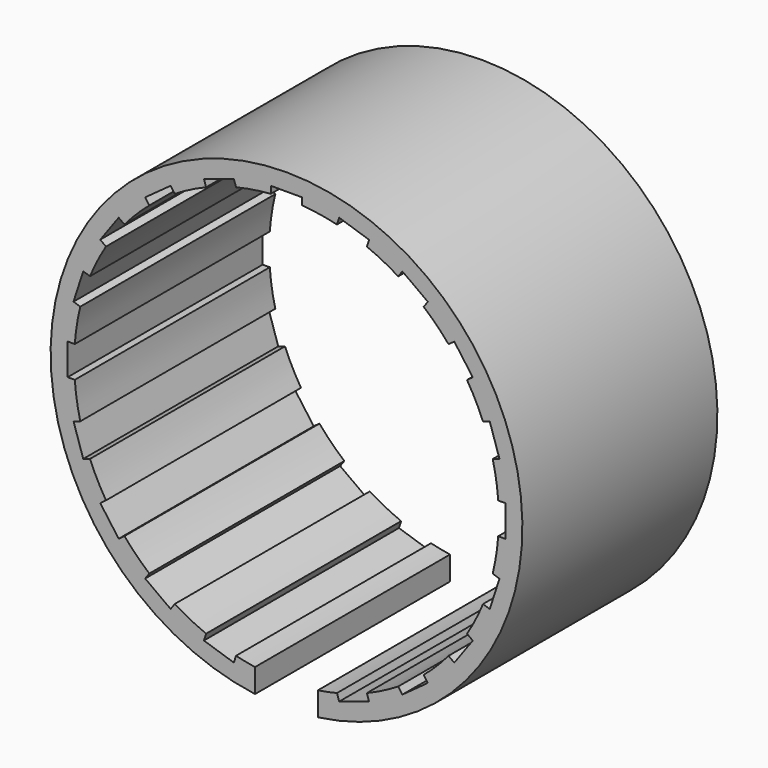
from build123d import *

# Parameters (mm, degrees)
F0_R     = 15
F0_R_2   = 13.5
F1_DEPTH = 15.5
F2_W     = 4
F2_H     = 19.090906
F3_DEPTH = 25
F4_W     = 2
F4_H     = 0.5
F4_W_2   = 0.5
F4_H_2   = 2
F5_DEPTH = 25


with BuildPart() as f1:
    # F0 (on Front) → F1 (new body)
    with BuildSketch(Plane.XZ):
        Circle(F0_R)
        Circle(F0_R_2, mode=Mode.SUBTRACT)
    extrude(amount=F1_DEPTH)

    # F2 (on Top) → F3 (cut)
    with BuildSketch(Plane.XY):
        with Locations((0, -8.067074)):
            Rectangle(F2_W, F2_H)
    extrude(amount=-F3_DEPTH, mode=Mode.SUBTRACT)

    # F4 (on Front) → F5 (cut, symmetric)
    with BuildSketch(Plane.XZ):
        with Locations((0, 13.665518)):
            Rectangle(F4_W, F4_H)
        Polygon((-5.251188, 12.925427), (-5.09668, 12.449899), (-3.194566, 13.067933), (-3.349075, 13.543461), align=None)
        Polygon((-8.988353, 10.670105), (-8.694461, 10.265597), (-7.076427, 11.441167), (-7.370319, 11.845676), align=None)
        Polygon((-11.845676, 7.370319), (-11.441167, 7.076427), (-10.265597, 8.694461), (-10.670105, 8.988353), align=None)
        Polygon((-13.543461, 3.349075), (-13.067933, 3.194566), (-12.449899, 5.09668), (-12.925427, 5.251188), align=None)
        with Locations((-13.665518, 0)):
            Rectangle(F4_W_2, F4_H_2)
        Polygon((-12.925427, -5.251188), (-12.449899, -5.09668), (-13.067933, -3.194566), (-13.543461, -3.349075), align=None)
        Polygon((-10.670105, -8.988353), (-10.265597, -8.694461), (-11.441167, -7.076427), (-11.845676, -7.370319), align=None)
        Polygon((-7.370319, -11.845676), (-7.076427, -11.441167), (-8.694461, -10.265597), (-8.988353, -10.670105), align=None)
        Polygon((-3.349075, -13.543461), (-3.194566, -13.067933), (-5.09668, -12.449899), (-5.251188, -12.925427), align=None)
        with Locations((0, -13.665518)):
            Rectangle(F4_W, F4_H)
        Polygon((5.251188, -12.925427), (5.09668, -12.449899), (3.194566, -13.067933), (3.349075, -13.543461), align=None)
        Polygon((8.988353, -10.670105), (8.694461, -10.265597), (7.076427, -11.441167), (7.370319, -11.845676), align=None)
        Polygon((11.845676, -7.370319), (11.441167, -7.076427), (10.265597, -8.694461), (10.670105, -8.988353), align=None)
        Polygon((13.543461, -3.349075), (13.067933, -3.194566), (12.449899, -5.09668), (12.925427, -5.251188), align=None)
        with Locations((13.665518, 0)):
            Rectangle(F4_W_2, F4_H_2)
        Polygon((12.925427, 5.251188), (12.449899, 5.09668), (13.067933, 3.194566), (13.543461, 3.349075), align=None)
        Polygon((10.670105, 8.988353), (10.265597, 8.694461), (11.441167, 7.076427), (11.845676, 7.370319), align=None)
        Polygon((7.370319, 11.845676), (7.076427, 11.441167), (8.694461, 10.265597), (8.988353, 10.670105), align=None)
        Polygon((3.349075, 13.543461), (3.194566, 13.067933), (5.09668, 12.449899), (5.251188, 12.925427), align=None)
    extrude(amount=F5_DEPTH, both=True, mode=Mode.SUBTRACT)


solid = f1.part
